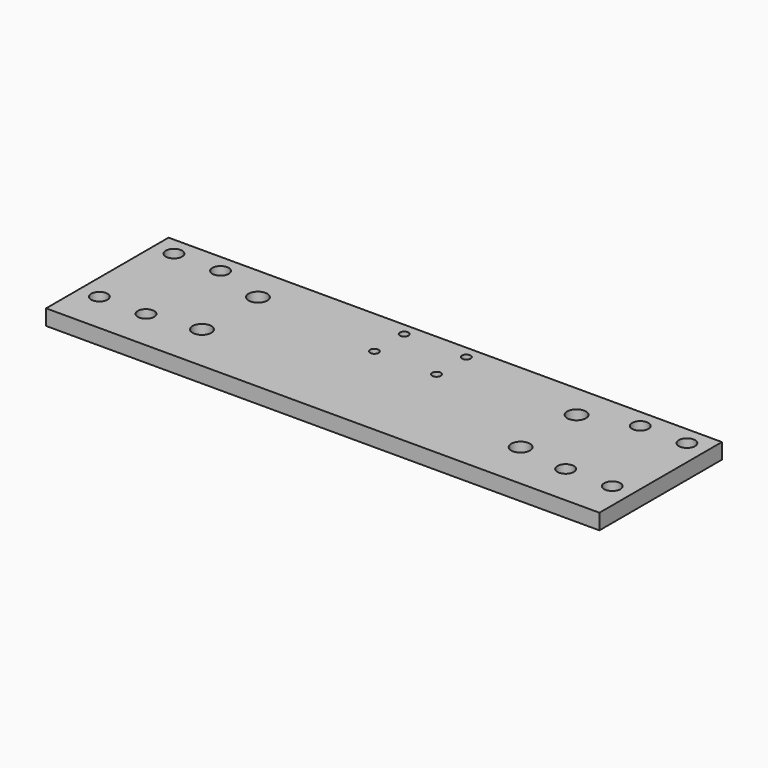
from build123d import *

# Parameters (mm, degrees)
F0_W     = 356
F0_H     = 98.5
F3_DEPTH = 10
F4_D     = 12
F5_D     = 10.5
F6_D     = 5.5


with BuildPart() as f3:
    # F0 (on Top) → F3 (new body)
    with BuildSketch(Plane.XY):
        with Locations((178, -49.25)):
            Rectangle(F0_W, F0_H)
    extrude(amount=F3_DEPTH)

    # F4 (through all)
    with Locations(Plane(origin=(0, 0, 0), x_dir=(1, 0, 0), z_dir=(0, 0, -1))):
        with Locations((75.5, 22.5), (75.5, 67.5), (280.5, 67.5), (280.5, 22.5)):
            Hole(F4_D / 2)

    # F5 (through all)
    with Locations(Plane(origin=(0, 0, 0), x_dir=(1, 0, 0), z_dir=(0, 0, -1))):
        with Locations((13, 11.9172791019), (43, 11.9172791019), (13, 71.9172791019), (43, 71.9172791019), (313, 11.9172791019), (343, 11.9172791019), (343, 71.9172791019), (313, 71.9172791019)):
            Hole(F5_D / 2)

    # F6 (through all)
    with Locations(Plane(origin=(0, 0, 0), x_dir=(1, 0, 0), z_dir=(0, 0, -1))):
        with Locations((158, 8), (198, 8), (158, 32), (198, 32)):
            Hole(F6_D / 2)


solid = f3.part
